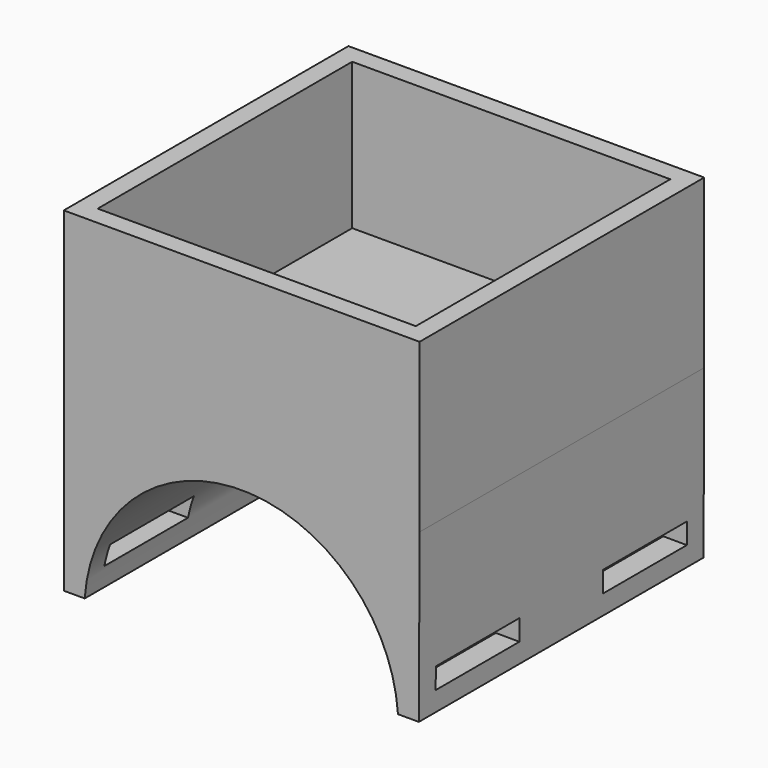
from build123d import *

# Parameters (mm, degrees)
F0_W     = 48.26
F0_H     = 48.26
F1_DEPTH = 3.175
F0_W_2   = 53.975
F0_H_2   = 53.975
F2_DEPTH = 25.4
F4_DEPTH = 53.975
F5_W     = 15.875
F5_H     = 3.175
F6_DEPTH = 63.5


with BuildPart() as f1:
    # F0 (on Top) → F1 (new body)
    with BuildSketch(Plane.XY):
        Rectangle(F0_W, F0_H)
    extrude(amount=F1_DEPTH)

    # F0 (on Top) → F2 (join)
    with BuildSketch(Plane.XY):
        Rectangle(F0_W_2, F0_H_2)
        Rectangle(F0_W, F0_H, mode=Mode.SUBTRACT)
    extrude(amount=F2_DEPTH)

    # F3 (on face) → F4 (join)
    with BuildSketch(Plane.XZ.offset(26.9875)):
        with BuildLine():
            Line((26.9875, 0), (-26.9875, 0))
            Line((-26.9875, 0), (-26.9875, -25.4))
            Line((-26.9875, -25.4), (-23.8125, -25.4))
            ThreePointArc((-23.8125, -25.4), (-0.052452, -3.175), (23.707596, -25.4))
            Line((23.707596, -25.4), (26.882596, -25.4))
            Line((26.882596, -25.4), (26.9875, 0))
        make_face()
    extrude(amount=-F4_DEPTH)

    # F5 (on face) → F6 (cut)
    with BuildSketch(Plane(origin=(26.98704, 0, -0.111459), x_dir=(0, 1, 0), z_dir=(0.999991, 0, -0.00413))):
        with Locations((-15.875, -20.73563)):
            Rectangle(F5_W, F5_H)
        with Locations((15.875, -20.73563)):
            Rectangle(F5_W, F5_H)
    extrude(amount=-F6_DEPTH, mode=Mode.SUBTRACT)


solid = f1.part
